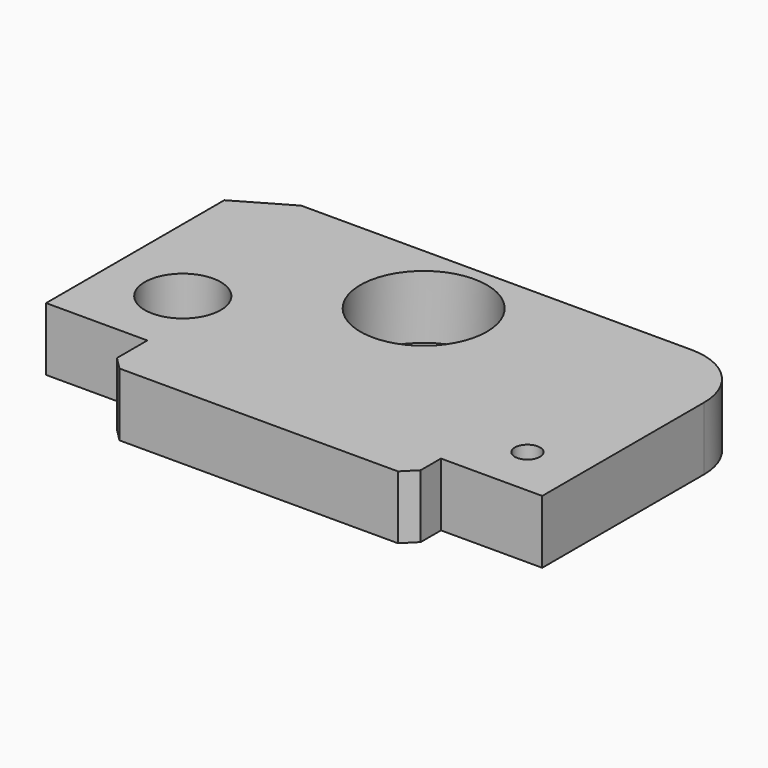
from build123d import *

# Parameters (mm, degrees)
F0_R     = 15
F0_R_2   = 5
F0_R_3   = 25
F1_DEPTH = 25


with BuildPart() as f1:
    # F0 (on Top) → F1 (new body)
    with BuildSketch(Plane.XY):
        with BuildLine():
            Line((-42.313037, 34.319891), (-63.097647, 22.319891))
            Line((-63.097647, 22.319891), (-63.097647, -35.680109))
            Line((-63.097647, -35.680109), (-63.097647, -65.680109))
            Line((-63.097647, -65.680109), (-33.097647, -65.680109))
            Line((-33.097647, -65.680109), (-23.097647, -65.680109))
            Line((-23.097647, -65.680109), (-23.097647, -80.680109))
            Line((-23.097647, -80.680109), (-18.097647, -85.680109))
            Line((-18.097647, -85.680109), (91.902353, -85.680109))
            Line((91.902353, -85.680109), (96.902353, -80.680109))
            Line((96.902353, -80.680109), (96.902353, -70.680109))
            Line((96.902353, -70.680109), (116.902353, -70.680109))
            Line((116.902353, -70.680109), (136.902353, -70.680109))
            Line((136.902353, -70.680109), (136.902353, 9.081151))
            ThreePointArc((136.902353, 9.081151), (129.66537, 26.912951), (111.903493, 34.319891))
            Line((111.903493, 34.319891), (28.686963, 34.319891))
            Line((28.686963, 34.319891), (-1.313037, 34.319891))
            Line((-1.313037, 34.319891), (-42.313037, 34.319891))
        make_face()
        with Locations((-33.097647, -35.680109)):
            Circle(F0_R, mode=Mode.SUBTRACT)
        with Locations((115.060529, -50.680109)):
            Circle(F0_R_2, mode=Mode.SUBTRACT)
        with Locations((30.064179, 4.319891)):
            Circle(F0_R_3, mode=Mode.SUBTRACT)
    extrude(amount=F1_DEPTH)


solid = f1.part
